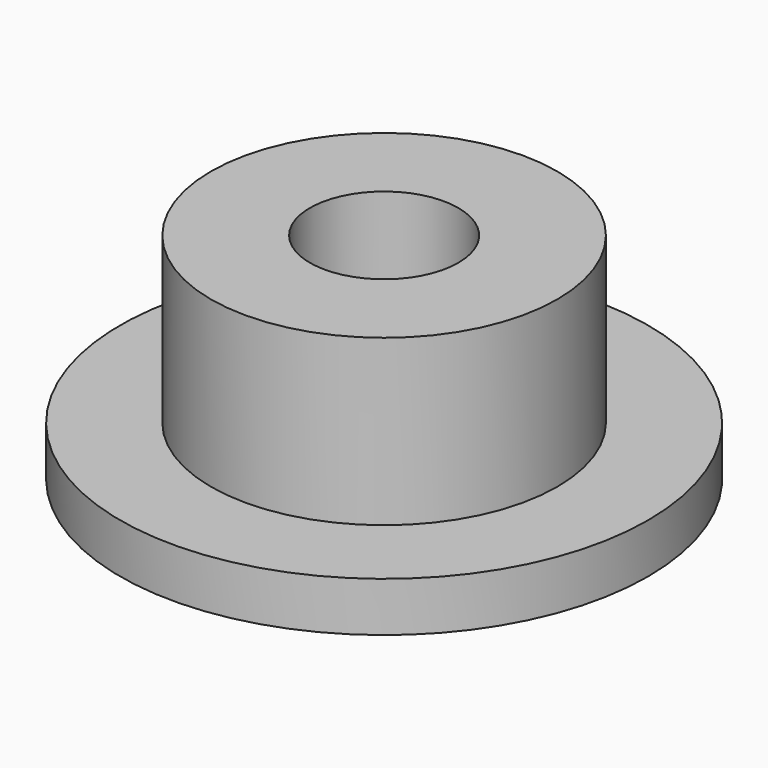
from build123d import *

# Parameters (mm, degrees)
SKETCH_R     = 16
PAD_DEPTH    = 3
SKETCH001_R  = 10.5
PAD001_DEPTH = 10
SKETCH002_R  = 6
PAD002_DEPTH = 5
SKETCH003_R  = 4.5
POCKET_DEPTH = 18.001


with BuildPart() as part:
    # Sketch → Pad (new body)
    with BuildSketch(Plane.XY):
        Circle(SKETCH_R)
    extrude(amount=PAD_DEPTH)

    # Sketch001 (on Face3 of Pad) → Pad001 (join)
    with BuildSketch(Plane.XY.offset(3)):
        Circle(SKETCH001_R)
    extrude(amount=PAD001_DEPTH)

    # Sketch002 (on Face2 of Pad001) → Pad002 (join)
    with BuildSketch(Plane(origin=(0, 0, 0), x_dir=(1, 0, 0), z_dir=(0, 0, -1))):
        Circle(SKETCH002_R)
    extrude(amount=PAD002_DEPTH)

    # Sketch003 (on Face7 of Pad002) → Pocket (cut, through all)
    with BuildSketch(Plane.XY.offset(13)):
        Circle(SKETCH003_R)
    extrude(amount=-POCKET_DEPTH, mode=Mode.SUBTRACT)


solid = part.part
